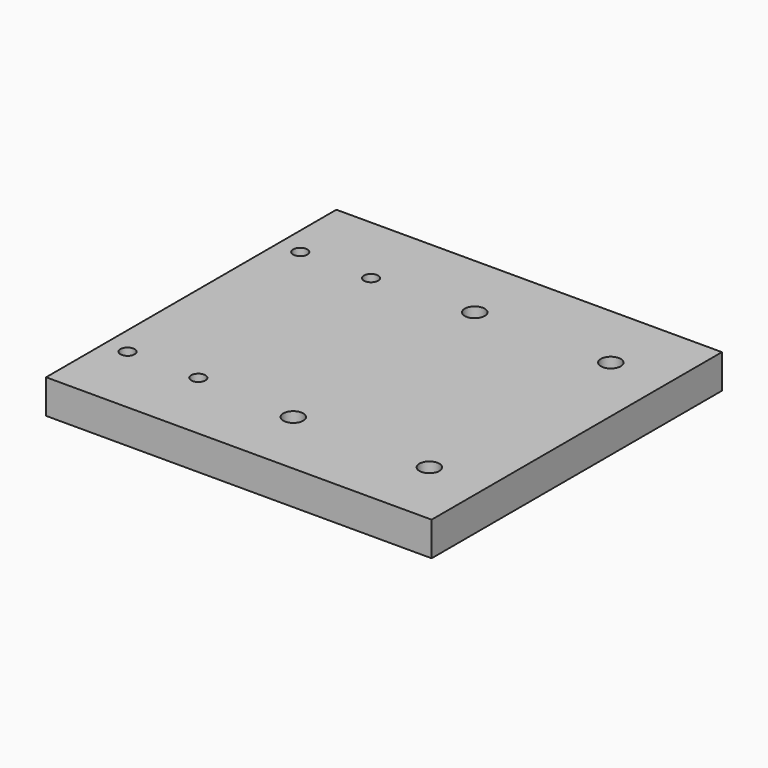
from build123d import *

# Parameters (mm, degrees)
F0_W     = 215.9
F0_H     = 203.2
F1_DEPTH = 19.05
F2_D     = 11.176
F4_D     = 7.9375


with BuildPart() as f1:
    # F0 (on Top) → F1 (new body)
    with BuildSketch(Plane.XY):
        Rectangle(F0_W, F0_H)
    extrude(amount=F1_DEPTH)

    # F2 (through all)
    with Locations(Plane(origin=(0, 0, 0), x_dir=(1, 0, 0), z_dir=(0, 0, -1))):
        with Locations((0, -63.5), (76.2, -63.5), (0, 63.5), (76.2, 63.5)):
            Hole(F2_D / 2)

    # F4 (through all)
    with Locations(Plane.XY.offset(19.05)):
        with Locations((-95.25, 60.452), (-55.626, 60.452), (-95.25, -60.452), (-55.626, -60.452)):
            Hole(F4_D / 2)


solid = f1.part
